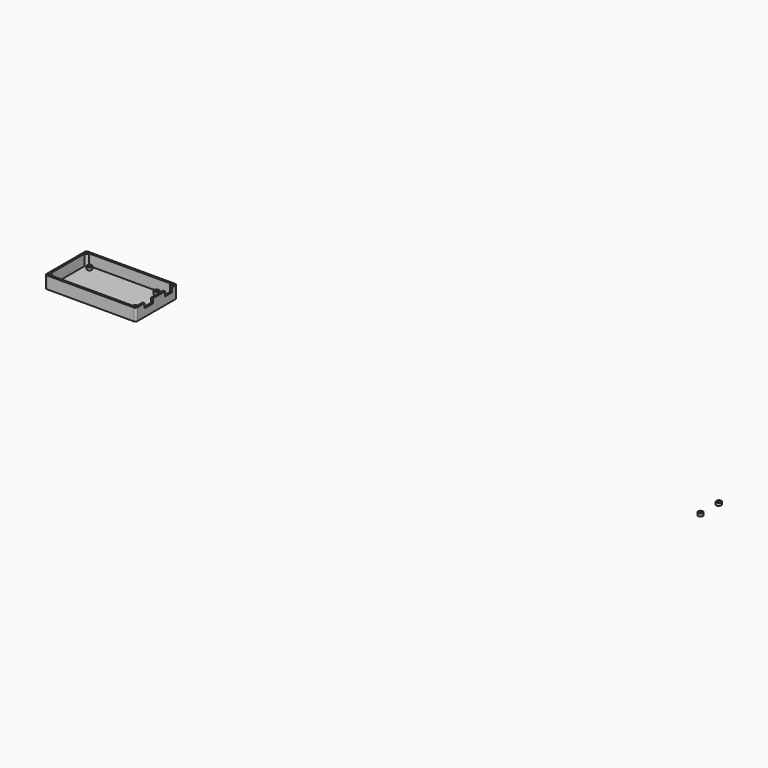
from build123d import *

# Parameters (mm, degrees)
F1_W      = 111.125
F1_H      = 63.0682
F2_DEPTH  = 1.5875
F3_W      = 111.125
F3_H      = 63.0682
F3_R      = 1.5
F4_DEPTH  = 13.335
F5_R      = 2.38125
F6_W      = 12.5
F6_H      = 5.5245
F6_W_2    = 10.5
F7_DEPTH  = 2.38125
F8_R      = 3
F8_R_2    = 1.5
F9_DEPTH  = 3.175
F10_R     = 1.5
F11_DEPTH = 14.9235


with BuildPart() as f2:
    # F1 (on Top) → F2 (new body)
    with BuildSketch(Plane.XY):
        Rectangle(F1_W, F1_H)
    extrude(amount=F2_DEPTH)

    # F3 (on face) → F4 (join)
    with BuildSketch(Plane.XY.offset(1.5875)):
        Rectangle(F3_W, F3_H)
        with Locations((-52.784375, -28.755975)):
            Circle(F3_R, mode=Mode.SUBTRACT)
        with Locations((52.784375, -28.755975)):
            Circle(F3_R, mode=Mode.SUBTRACT)
        with BuildLine():
            Line((52.784375, 25.97785), (53.18125, 25.97785))
            Line((53.18125, 25.97785), (53.18125, -25.97785))
            Line((53.18125, -25.97785), (52.784375, -25.97785))
            ThreePointArc((52.784375, -25.97785), (50.819944, -26.791544), (50.00625, -28.755975))
            Line((50.00625, -28.755975), (50.00625, -29.15285))
            Line((50.00625, -29.15285), (-50.00625, -29.15285))
            Line((-50.00625, -29.15285), (-50.00625, -28.755975))
            ThreePointArc((-50.00625, -28.755975), (-50.819944, -26.791544), (-52.784375, -25.97785))
            Line((-52.784375, -25.97785), (-53.18125, -25.97785))
            Line((-53.18125, -25.97785), (-53.18125, 25.97785))
            Line((-53.18125, 25.97785), (-52.784375, 25.97785))
            ThreePointArc((-52.784375, 25.97785), (-50.819944, 26.791544), (-50.00625, 28.755975))
            Line((-50.00625, 28.755975), (-50.00625, 29.15285))
            Line((-50.00625, 29.15285), (50.00625, 29.15285))
            Line((50.00625, 29.15285), (50.00625, 28.755975))
            ThreePointArc((50.00625, 28.755975), (50.819944, 26.791544), (52.784375, 25.97785))
        make_face(mode=Mode.SUBTRACT)
        with Locations((-52.784375, 28.755975)):
            Circle(F3_R, mode=Mode.SUBTRACT)
        with Locations((52.784375, 28.755975)):
            Circle(F3_R, mode=Mode.SUBTRACT)
    extrude(amount=F4_DEPTH)

    # F5
    f5_edges = [f2.edges().sort_by_distance(p)[0] for p in [
        (55.5625, -31.5341, 7.46125),
        (55.5625, 31.5341, 7.46125),
        (-55.5625, -31.5341, 7.46125),
        (-55.5625, 31.5341, 7.46125),
    ]]
    fillet(f5_edges, radius=F5_R)

    # F6 (on face) → F7 (cut, through all)
    with BuildSketch(Plane.YZ.offset(55.5625)):
        with Locations((-11.7716, 12.16025)):
            Rectangle(F6_W, F6_H)
        with Locations((18.5216, 12.16025)):
            Rectangle(F6_W_2, F6_H)
    extrude(amount=-F7_DEPTH, mode=Mode.SUBTRACT)

    # F8 (on face) → F9 (join)
    with BuildSketch(Plane.XY.offset(1.5875)):
        with Locations((-45.8, 24.2716)):
            Circle(F8_R)
        with Locations((-45.8, 24.2716)):
            Circle(F8_R_2, mode=Mode.SUBTRACT)
        with Locations((-39.3, -24.2716)):
            Circle(F8_R)
        with Locations((-39.3, -24.2716)):
            Circle(F8_R_2, mode=Mode.SUBTRACT)
        with Locations((728.9, 19.2716)):
            Circle(F8_R)
        with Locations((728.9, 19.2716)):
            Circle(F8_R_2, mode=Mode.SUBTRACT)
        with Locations((728.9, -8.7284)):
            Circle(F8_R)
        with Locations((728.9, -8.7284)):
            Circle(F8_R_2, mode=Mode.SUBTRACT)
        with Locations((36.2, 24.2716)):
            Circle(F8_R)
        with Locations((36.2, 24.2716)):
            Circle(F8_R_2, mode=Mode.SUBTRACT)
        with Locations((34.7, -24.2716)):
            Circle(F8_R)
        with Locations((34.7, -24.2716)):
            Circle(F8_R_2, mode=Mode.SUBTRACT)
    extrude(amount=F9_DEPTH)

    # F10 (on face) → F11 (cut, through all)
    with BuildSketch(Plane.XY.offset(14.9225)):
        with Locations((-52.784375, 28.755975)):
            Circle(F10_R)
        with Locations((-52.784375, -28.755975)):
            Circle(F10_R)
        with Locations((52.784375, -28.755975)):
            Circle(F10_R)
        with Locations((52.784375, 28.755975)):
            Circle(F10_R)
    extrude(amount=-F11_DEPTH, mode=Mode.SUBTRACT)


solid = f2.part
